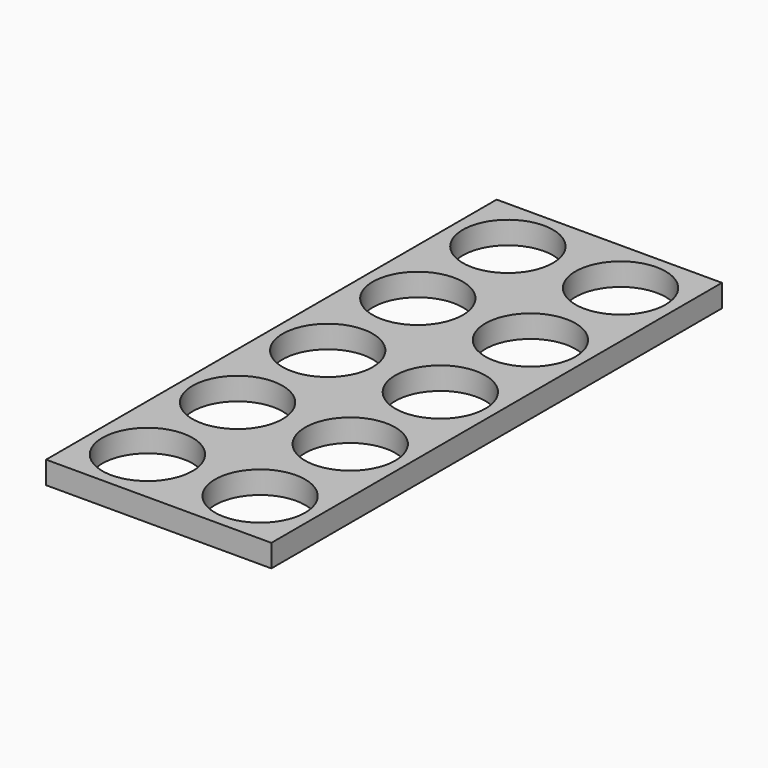
from build123d import *

# Parameters (mm, degrees)
F0_W     = 127
F0_H     = 317.5
F2_DEPTH = 12.7
F1_R     = 25.4
F3_DEPTH = 12.7


with BuildPart() as f2:
    # F0 (on Top) → F2 (new body)
    with BuildSketch(Plane.XY):
        with Locations((-11.084195, 58.311132)):
            Rectangle(F0_W, F0_H)
    extrude(amount=F2_DEPTH)

    # F1 (on face) → F3 (cut, through all)
    with BuildSketch(Plane.XY):
        with Locations((-42.834195, 185.311132)):
            Circle(F1_R)
        with Locations((20.665805, 185.311132)):
            Circle(F1_R)
        with Locations((-42.834195, 121.811132)):
            Circle(F1_R)
        with Locations((20.665805, 121.811132)):
            Circle(F1_R)
        with Locations((-42.834195, 58.311132)):
            Circle(F1_R)
        with Locations((20.665805, 58.311132)):
            Circle(F1_R)
        with Locations((-42.834195, -5.188868)):
            Circle(F1_R)
        with Locations((20.665805, -5.188868)):
            Circle(F1_R)
        with Locations((-42.834195, -68.688868)):
            Circle(F1_R)
        with Locations((20.665805, -68.688868)):
            Circle(F1_R)
    extrude(amount=F3_DEPTH, mode=Mode.SUBTRACT)


solid = f2.part
